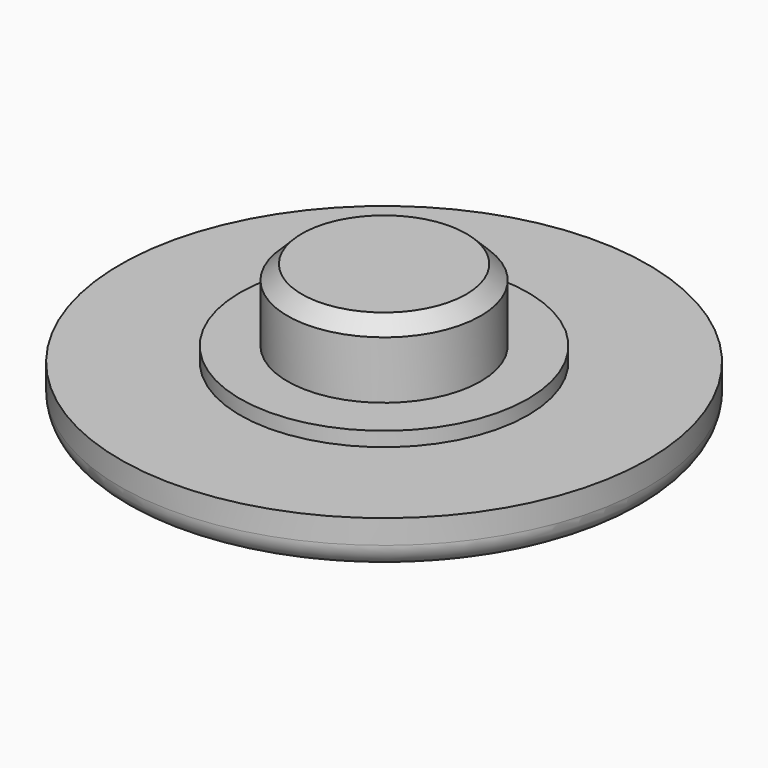
from build123d import *

# Parameters (mm, degrees)
F0_R     = 11
F0_R_2   = 6
F0_R_3   = 4.025
F1_DEPTH = 2
F2_DEPTH = 0.6
F3_DEPTH = 3.6
F4_R     = 1
F5_SIZE  = 0.6


with BuildPart() as f1:
    # F0 (on Top) → F1 (new body)
    with BuildSketch(Plane.XY):
        Circle(F0_R)
        Circle(F0_R_2, mode=Mode.SUBTRACT)
        Circle(F0_R_2)
        Circle(F0_R_3, mode=Mode.SUBTRACT)
        Circle(F0_R_3)
    extrude(amount=-F1_DEPTH)

    # F0 (on Top) → F2 (join)
    with BuildSketch(Plane.XY):
        Circle(F0_R_2)
        Circle(F0_R_3, mode=Mode.SUBTRACT)
    extrude(amount=F2_DEPTH)

    # F0 (on Top) → F3 (join)
    with BuildSketch(Plane.XY):
        Circle(F0_R_3)
    extrude(amount=F3_DEPTH)

    # F4
    f4_edges = [f1.edges().sort_by_distance(p)[0] for p in [
        (-11, 0, -2),
    ]]
    fillet(f4_edges, radius=F4_R)

    # F5
    f5_edges = [f1.edges().sort_by_distance(p)[0] for p in [
        (-4.025, 0, 3.6),
    ]]
    chamfer(f5_edges, length=F5_SIZE)


solid = f1.part
